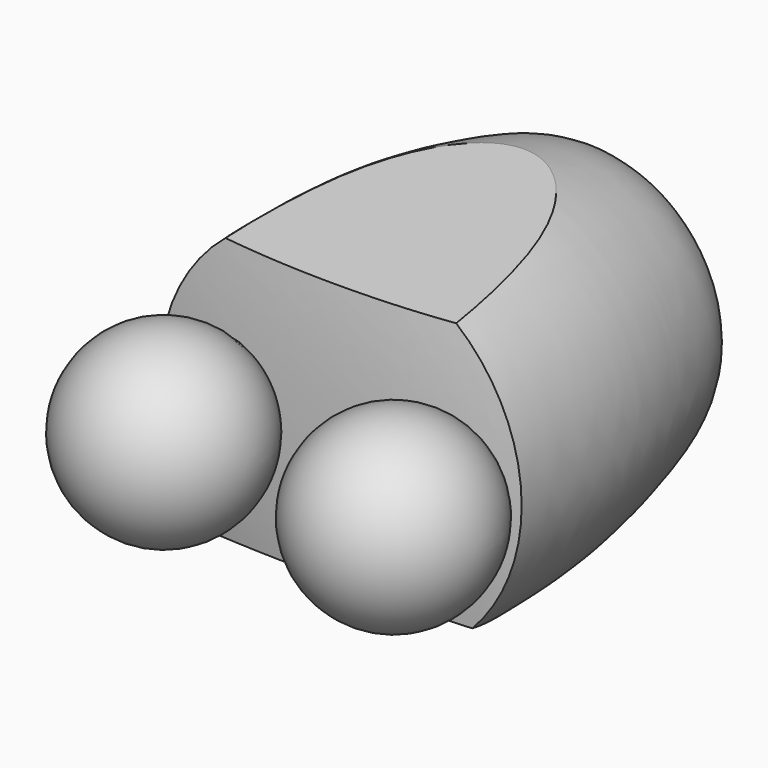
from build123d import *

# Parameters (mm, degrees)
FILLET058_R          = 6
POCKET021_DEPTH      = 135.001
POCKET021_DEPTH_BACK = 135.001
POCKET022_DEPTH      = 135.001
POCKET022_DEPTH_BACK = 135.001


with BuildPart() as part:
    # Sketch120 → Revolution063 (revolve)
    with BuildSketch(Plane.XY):
        with BuildLine():
            Line((0, -29.430492), (0, -256.067871))
            add(Edge.make_bspline(
                [(118.087006, -247.149109), (78.943573, -254.209778), (41.881203, -256.067871), (0, -256.067871)],
                knots=[0, 0, 0, 0, 1, 1, 1, 1], degree=3))
            add(Edge.make_bspline(
                [(0, -29.430492), (51.371703, -29.430492), (85.484656, -26.492154), (104.24503, -87.257226), (119.255189, -159.347806), (118.910339, -227.073486), (118.087006, -247.149109)],
                knots=[0, 0, 0, 0, 0.25, 0.5, 0.75, 1, 1, 1, 1], degree=3))
        make_face()
    revolve(axis=Axis((0, 0, 0), (0, 1, 0)))

    # Sketch121 → Groove056 (revolve, cut)
    with BuildSketch(Plane.XY):
        with BuildLine():
            Line((0, 75), (0, -75))
            ThreePointArc((0, -75), (75, 0), (0, 75))
        make_face()
    revolve(axis=Axis((0, 0, 0), (0, 1, 0)), mode=Mode.SUBTRACT)

    # Fillet058
    fillet058_edges = [part.edges().sort_by_distance(p)[0] for p in [
        (-67.994287, -31.650859, 0),
    ]]
    fillet(fillet058_edges, radius=FILLET058_R)

    # Sketch122 → Groove057 (revolve, cut)
    with BuildSketch(Plane.XY):
        with BuildLine():
            Line((15, -298), (135, -298))
            ThreePointArc((135, -298), (75, -238), (15, -298))
        make_face()
        with BuildLine():
            Line((-135, -298), (-15, -298))
            ThreePointArc((-15, -298), (-75, -238), (-135, -298))
        make_face()
    revolve(axis=Axis((15, -298, 0), (1, 0, 0)), mode=Mode.SUBTRACT)

    # Sketch122 → Revolution064 (revolve)
    with BuildSketch(Plane.XY):
        with BuildLine():
            Line((15, -298), (135, -298))
            ThreePointArc((135, -298), (75, -238), (15, -298))
        make_face()
        with BuildLine():
            Line((-135, -298), (-15, -298))
            ThreePointArc((-15, -298), (-75, -238), (-135, -298))
        make_face()
    revolve(axis=Axis((15, -298, 0), (1, 0, 0)))

    # Sketch123 → Pocket021 (cut, two sides)
    with BuildSketch(Plane.YZ) as pocket021_sk:
        Polygon((-309.733459, 84.757393), (-36.255981, 111.745285), (-36.255981, 192.709015), (-309.733459, 192.709015), align=None)
    extrude(amount=-POCKET021_DEPTH, mode=Mode.SUBTRACT)
    extrude(pocket021_sk.sketch, amount=POCKET021_DEPTH_BACK, mode=Mode.SUBTRACT)

    # Sketch124 → Pocket022 (cut, two sides)
    with BuildSketch(Plane.YZ) as pocket022_sk:
        Polygon((-276.336304, -71.472351), (-109.323242, -126.410881), (-109.323242, -220.905121), (-276.336304, -220.905121), align=None)
    extrude(amount=-POCKET022_DEPTH, mode=Mode.SUBTRACT)
    extrude(pocket022_sk.sketch, amount=POCKET022_DEPTH_BACK, mode=Mode.SUBTRACT)


with BuildPart() as part_1:
    # Body036 placement: moved
    add(part.part.moved(Location((0, 1197.018312, 0.388141))))


solid = part_1.part
